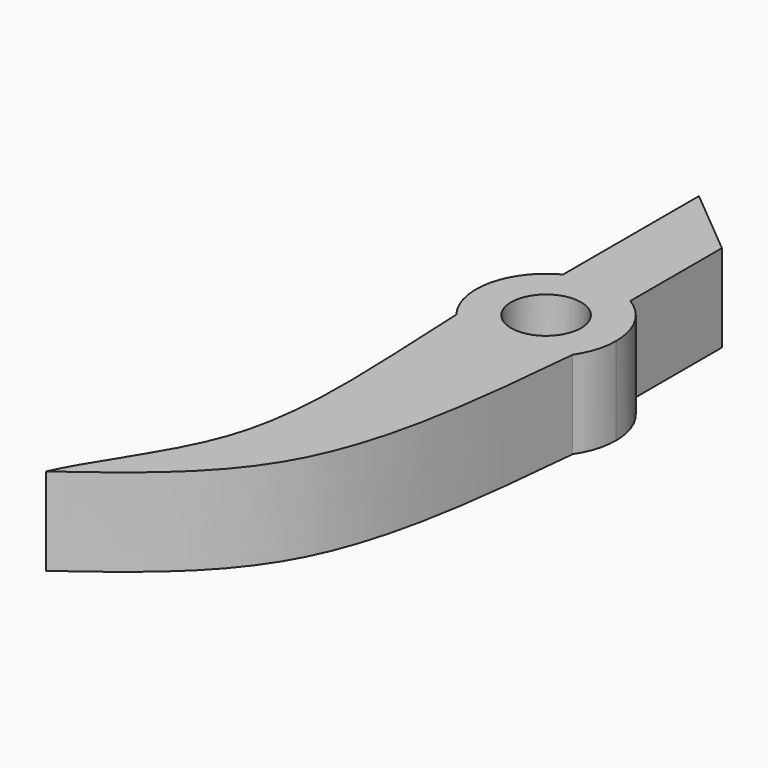
from build123d import *

# Parameters (mm, degrees)
F0_R     = 2
F1_DEPTH = 5


with BuildPart() as f1:
    # F0 (on Top) → F1 (new body)
    with BuildSketch(Plane.XY):
        with BuildLine():
            ThreePointArc((-1.8593732966, 3.5415718183), (0.1256674698, 3.9980254735), (2.0781231578, 3.4178069198))
            Line((2.0781231578, 3.4178069198), (2.0781231578, 9.95312538))
            Line((2.0781231578, 9.95312538), (-1.8593732966, 13.2343750447))
            Line((-1.8593732966, 13.2343750447), (-1.8593732966, 3.5415718183))
        make_face()
        with BuildLine():
            ThreePointArc((3.3147150847, -2.2388979224), (3.8248438098, -1.1707133853), (4, 0))
            ThreePointArc((4, 0), (3.4865808919, 1.9605493323), (2.0781231578, 3.4178069198))
            ThreePointArc((2.0781231578, 3.4178069198), (0.1256674698, 3.9980254735), (-1.8593732966, 3.5415718183))
            ThreePointArc((-1.8593732966, 3.5415718183), (-3.9093033939, 0.8469633845), (-3.1584306628, -2.4544481556))
            ThreePointArc((-3.1584306628, -2.4544481556), (0.1331228038, -3.9977841762), (3.3147150847, -2.2388979224))
        make_face()
        Circle(F0_R, mode=Mode.SUBTRACT)
        with BuildLine():
            add(Edge.make_bspline(
                [(3.3147150847, -2.2388979224), (2.7708082025, -7.9966705645), (1.7749881346, -18.5865607153), (-4.9275215468, -23.4735932789), (-7.9843755811, -25.7031265646)],
                knots=[0, 0, 0, 0, 0.5438220711, 1, 1, 1, 1], degree=3))
            ThreePointArc((3.3147150847, -2.2388979224), (0.1331228038, -3.9977841762), (-3.1584306628, -2.4544481556))
            add(Edge.make_bspline(
                [(-3.1584306628, -2.4544481556), (-2.9708882556, -7.7977456433), (-1.9257495096, -17.6899848541), (-6.6804976422, -22.9462452047), (-7.9843755811, -25.7031265646)],
                knots=[0, 0, 0, 0, 0.5577685344, 1, 1, 1, 1], degree=3))
        make_face()
    extrude(amount=F1_DEPTH)


solid = f1.part
